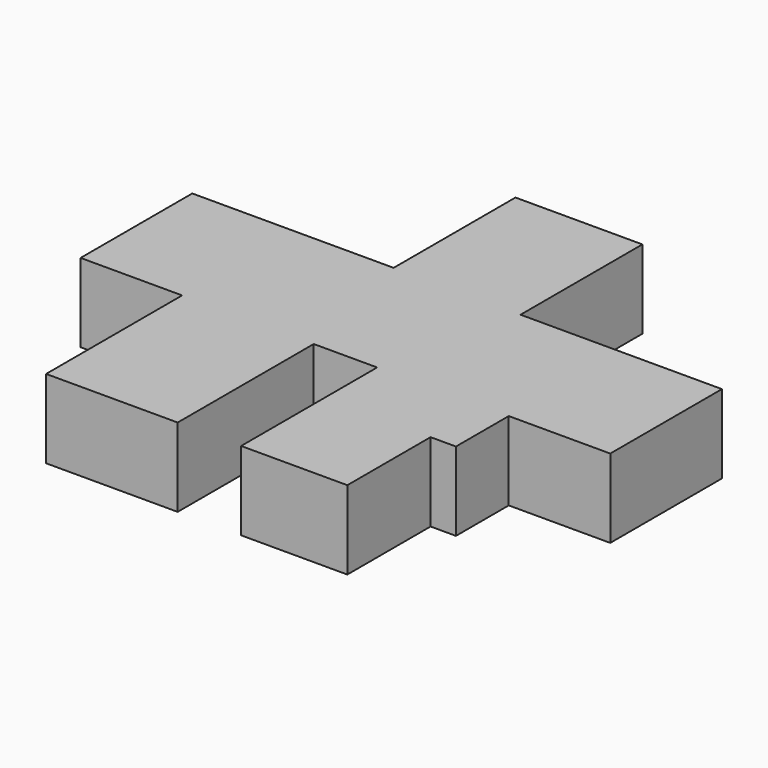
from build123d import *

# Parameters (mm, degrees)
F1_DEPTH = 3.1


with BuildPart() as f1:
    # F0 (on Top) → F1 (new body)
    with BuildSketch(Plane.XY):
        Polygon((2.5, 9.1), (-2.5, 9.1), (-2.5, 3.1), (-10.435, 3.1), (-10.435, -2.4), (-6.435, -2.4), (-6.435, -5), (-6.435, -9.1), (-4.435, -9.1), (-1.25, -9.1), (-1.25, -2.4), (1.25, -2.4), (1.25, -9.1), (4.435, -9.1), (5.435, -9.1), (5.435, -5), (6.435, -5), (6.435, -2.4), (10.435, -2.4), (10.435, 3.1), (2.5, 3.1), align=None)
    extrude(amount=F1_DEPTH)


solid = f1.part
